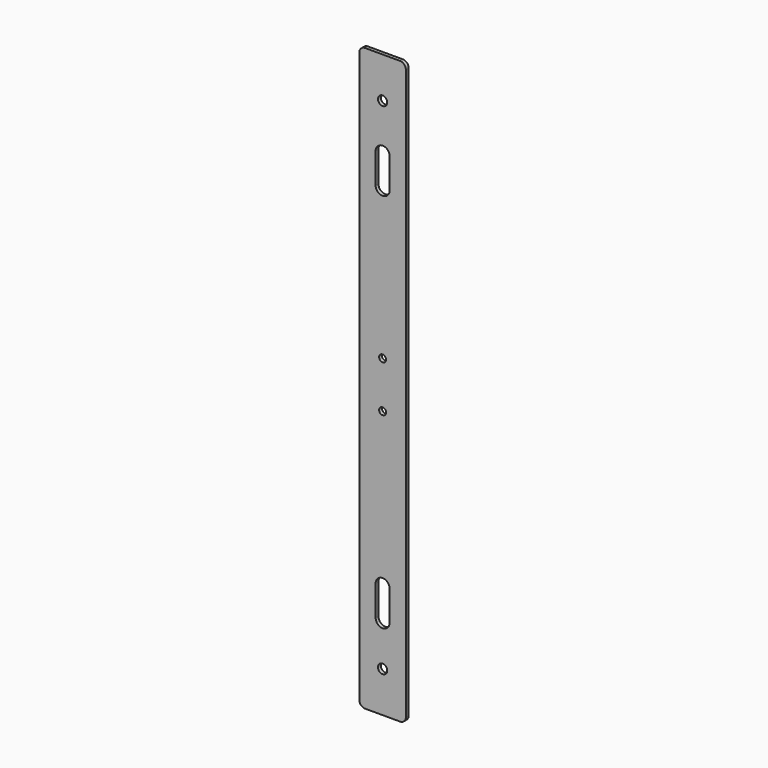
from build123d import *

# Parameters (mm, degrees)
F0_W      = 40
F0_H      = 500
F1_DEPTH  = 3
F3_D      = 8
F5_D      = 12
F7_DEPTH  = 6
F8_D      = 12
F10_DEPTH = 6
F12_DEPTH = 6
F13_R     = 5
F15_D     = 6


with BuildPart() as f1:
    # F0 (on Front) → F1 (new body)
    with BuildSketch(Plane.XZ):
        Rectangle(F0_W, F0_H)
    extrude(amount=F1_DEPTH)

    # F3 (through all)
    with Locations(Plane.XZ.offset(3)):
        with Locations((0, -215), (0, 215)):
            Hole(F3_D / 2)

    # F5 (through all)
    with Locations(Plane.XZ.offset(3)):
        with Locations((0, 149)):
            Hole(F5_D / 2)

    # F6 (on face) → F7 (cut)
    with BuildSketch(Plane.XZ.offset(3)):
        with BuildLine():
            ThreePointArc((-3, 155), (0, 152), (3, 155))
            Line((3, 155), (3, 175))
            ThreePointArc((3, 175), (0, 178), (-3, 175))
            Line((-3, 175), (-3, 155))
        make_face()
    extrude(amount=-F7_DEPTH, mode=Mode.SUBTRACT)

    # F8 (through all)
    with Locations(Plane.XZ.offset(3)):
        with Locations((0, -178.25)):
            Hole(F8_D / 2)

    # F9 (on face) → F10 (cut)
    with BuildSketch(Plane.XZ.offset(3)):
        with BuildLine():
            ThreePointArc((-3, -172.25), (0, -175.25), (3, -172.25))
            Line((3, -172.25), (3, -152.25))
            ThreePointArc((3, -152.25), (0, -149.25), (-3, -152.25))
            Line((-3, -152.25), (-3, -172.25))
        make_face()
    extrude(amount=-F10_DEPTH, mode=Mode.SUBTRACT)

    # F11 (on face) → F12 (cut)
    with BuildSketch(Plane.XZ.offset(3)):
        with BuildLine():
            ThreePointArc((-6, 149), (0, 143), (6, 149))
            Line((6, 149), (6, 175))
            ThreePointArc((6, 175), (0, 181), (-6, 175))
            Line((-6, 175), (-6, 149))
        make_face()
        with BuildLine():
            ThreePointArc((-6, -178.25), (0, -184.25), (6, -178.25))
            Line((6, -178.25), (6, -152.25))
            ThreePointArc((6, -152.25), (0, -146.25), (-6, -152.25))
            Line((-6, -152.25), (-6, -178.25))
        make_face()
    extrude(amount=-F12_DEPTH, mode=Mode.SUBTRACT)

    # F13
    f13_edges = [f1.edges().sort_by_distance(p)[0] for p in [
        (20, -1.5, 250),
        (-20, -1.5, 250),
        (20, -1.5, -250),
        (-20, -1.5, -250),
    ]]
    fillet(f13_edges, radius=F13_R)

    # F15 (through all)
    with Locations(Plane.XZ.offset(3)):
        with Locations((0, 20), (0, -20)):
            Hole(F15_D / 2)


solid = f1.part
